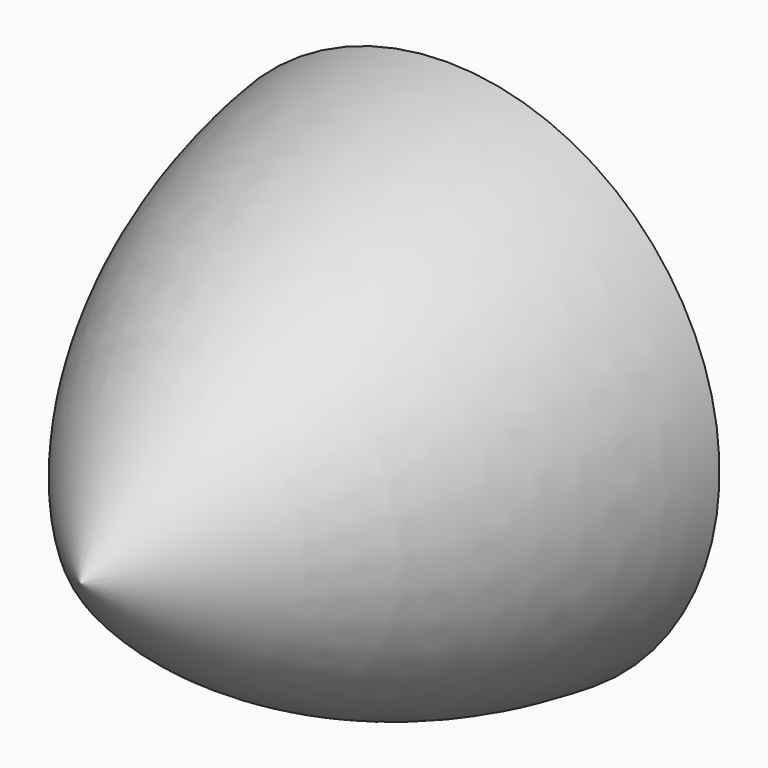
from build123d import *


with BuildPart() as f1:
    # F0 (on Right) → F1 (revolve)
    with BuildSketch(Plane.YZ):
        with BuildLine():
            Line((0, -19), (0, 0))
            Line((0, 0), (-32, 0))
            ThreePointArc((-32, 0), (-17.973753, -12.824216), (0, -19))
        make_face()
    revolve(axis=Axis((0, -16, 0), (0, -1, 0)))


solid = f1.part
